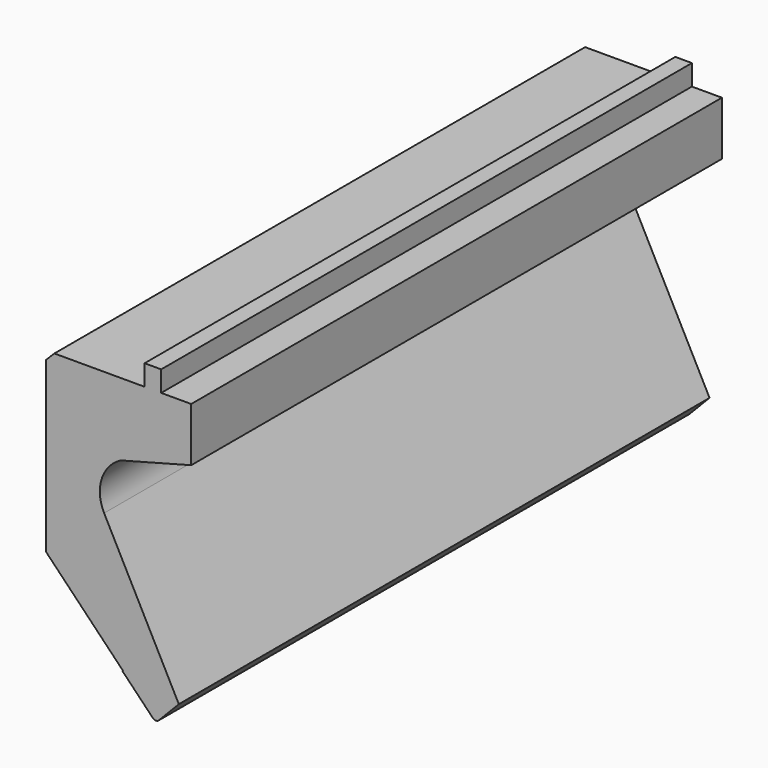
from build123d import *

# Parameters (mm, degrees)
F1_DEPTH      = 254
F1_DEPTH_BACK = 254


with BuildPart() as f1:
    # F0 (on Front) → F1 (new body, two sides)
    with BuildSketch(Plane.XZ) as f1_sk:
        with BuildLine():
            Line((6.35, 222.25), (0, 215.9))
            Line((0, 215.9), (0, 86.396878))
            Line((0, 86.396878), (58.90925, 25.394564))
            Line((58.90925, 25.394564), (58.543826, 25.041678))
            Line((58.543826, 25.041678), (81.790096, 0.96946))
            ThreePointArc((81.790096, 0.96946), (84.074, 0), (86.357904, 0.96946))
            Line((86.357904, 0.96946), (101.649771, 16.804652))
            Line((101.649771, 16.804652), (44.45, 127))
            ThreePointArc((44.45, 127), (42.545992, 149.479528), (57.15, 166.6748))
            Line((57.15, 166.6748), (111.125, 180.975))
            Line((111.125, 180.975), (111.125, 222.25))
            Line((111.125, 222.25), (88.138, 222.25))
            Line((88.138, 222.25), (88.138, 238.125))
            Line((88.138, 238.125), (75.438, 238.125))
            Line((75.438, 238.125), (75.438, 222.25))
            Line((75.438, 222.25), (6.35, 222.25))
        make_face()
    extrude(amount=F1_DEPTH)
    extrude(f1_sk.sketch, amount=-F1_DEPTH_BACK)


solid = f1.part
